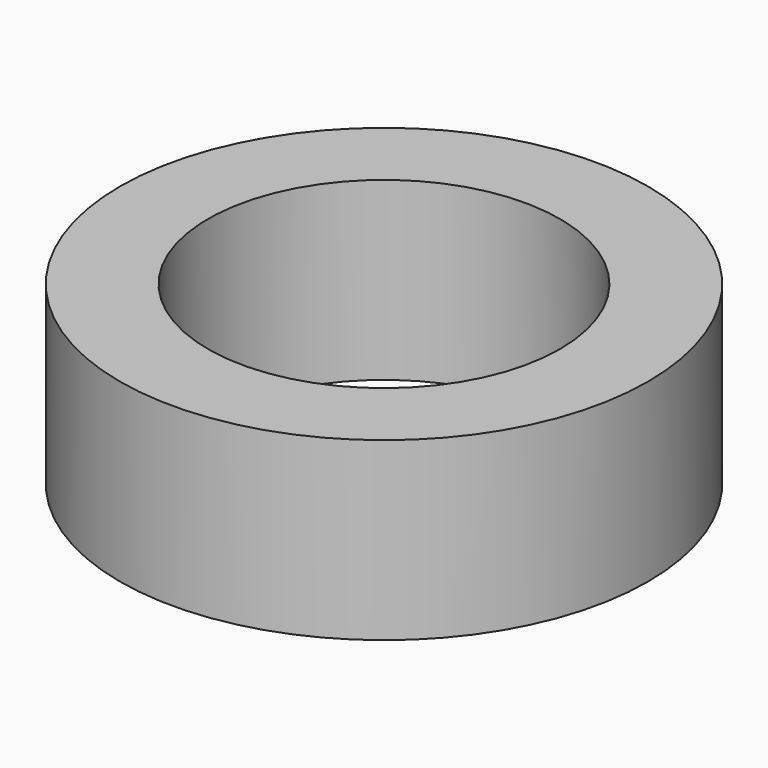
from build123d import *

# Parameters (mm, degrees)
CYLINDER048_R     = 5
CYLINDER048_DEPTH = 10
CYLINDER049_R     = 7.5
CYLINDER049_DEPTH = 5


with BuildPart() as cylinder048:
    # Cylinder048 → Cylinder048 (new body)
    with BuildSketch(Plane.XY):
        Circle(CYLINDER048_R)
    extrude(amount=CYLINDER048_DEPTH)


with BuildPart() as obj1:
    # Cylinder049 → Cylinder049 (new body)
    with BuildSketch(Plane.XY):
        Circle(CYLINDER049_R)
    extrude(amount=CYLINDER049_DEPTH)

    # Cut004037: cut Cylinder048
    add(cylinder048.part, mode=Mode.SUBTRACT)


solid = obj1.part
